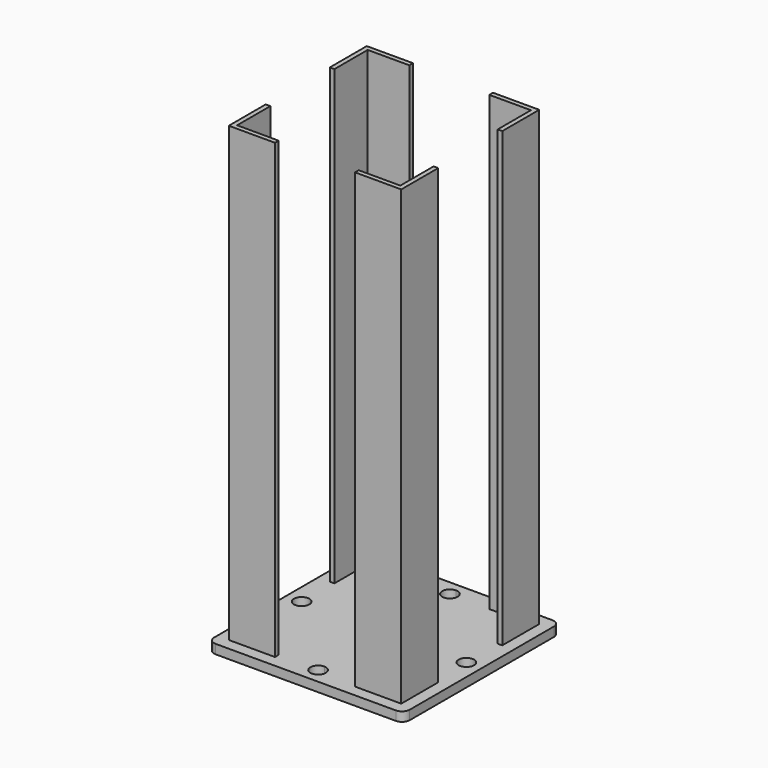
from build123d import *

# Parameters (mm, degrees)
F1_DEPTH = 6
F2_DEPTH = 300


with BuildPart() as f1:
    # F0 (on Top) → F1 (new body)
    with BuildSketch(Plane.XY):
        with BuildLine():
            Line((0, -63.5), (58.5, -63.5))
            ThreePointArc((58.5, -63.5), (62.035534, -62.035534), (63.5, -58.5))
            Line((63.5, -58.5), (63.5, 0))
            Line((63.5, 0), (58.5, 0))
            ThreePointArc((58.5, 0), (53.5, -5), (48.5, 0))
            Line((48.5, 0), (0, 0))
            Line((0, 0), (0, -48.5))
            ThreePointArc((0, -48.5), (3.535534, -49.964466), (5, -53.5))
            ThreePointArc((5, -53.5), (3.535534, -57.035534), (0, -58.5))
            Line((0, -58.5), (0, -63.5))
        make_face()
        Polygon((53, -26), (56, -26), (56, -56), (26, -56), (26, -53), (53, -53), align=None, mode=Mode.SUBTRACT)
        with BuildLine():
            Line((-58.5, -63.5), (0, -63.5))
            Line((0, -63.5), (0, -58.5))
            ThreePointArc((0, -58.5), (-5, -53.5), (0, -48.5))
            Line((0, -48.5), (0, 0))
            Line((0, 0), (-48.5, 0))
            ThreePointArc((-48.5, 0), (-53.5, -5), (-58.5, 0))
            Line((-58.5, 0), (-63.5, 0))
            Line((-63.5, 0), (-63.5, -58.5))
            ThreePointArc((-63.5, -58.5), (-62.035534, -62.035534), (-58.5, -63.5))
        make_face()
        Polygon((-56, -56), (-56, -26), (-53, -26), (-53, -53), (-26, -53), (-26, -56), align=None, mode=Mode.SUBTRACT)
        with BuildLine():
            Line((58.5, 0), (63.5, 0))
            Line((63.5, 0), (63.5, 58.5))
            ThreePointArc((63.5, 58.5), (62.035534, 62.035534), (58.5, 63.5))
            Line((58.5, 63.5), (0, 63.5))
            Line((0, 63.5), (0, 58.5))
            ThreePointArc((0, 58.5), (3.535534, 57.035534), (5, 53.5))
            ThreePointArc((5, 53.5), (3.535534, 49.964466), (0, 48.5))
            Line((0, 48.5), (0, 0))
            Line((0, 0), (48.5, 0))
            ThreePointArc((48.5, 0), (53.5, 5), (58.5, 0))
        make_face()
        Polygon((26, 53), (26, 56), (56, 56), (56, 26), (53, 26), (53, 53), align=None, mode=Mode.SUBTRACT)
        with BuildLine():
            Line((-63.5, 58.5), (-63.5, 0))
            Line((-63.5, 0), (-58.5, 0))
            ThreePointArc((-58.5, 0), (-53.5, 5), (-48.5, 0))
            Line((-48.5, 0), (0, 0))
            Line((0, 0), (0, 48.5))
            ThreePointArc((0, 48.5), (-5, 53.5), (0, 58.5))
            Line((0, 58.5), (0, 63.5))
            Line((0, 63.5), (-58.5, 63.5))
            ThreePointArc((-58.5, 63.5), (-62.035534, 62.035534), (-63.5, 58.5))
        make_face()
        Polygon((-56, 26), (-56, 56), (-26, 56), (-26, 53), (-53, 53), (-53, 26), align=None, mode=Mode.SUBTRACT)
    extrude(amount=F1_DEPTH)

    # F0 (on Top) → F2 (join)
    with BuildSketch(Plane.XY):
        Polygon((56, -56), (56, -26), (53, -26), (53, -53), (26, -53), (26, -56), align=None)
        Polygon((56, 56), (26, 56), (26, 53), (53, 53), (53, 26), (56, 26), align=None)
        Polygon((-26, 56), (-56, 56), (-56, 26), (-53, 26), (-53, 53), (-26, 53), align=None)
        Polygon((-53, -26), (-56, -26), (-56, -56), (-26, -56), (-26, -53), (-53, -53), align=None)
    extrude(amount=F2_DEPTH)


solid = f1.part
